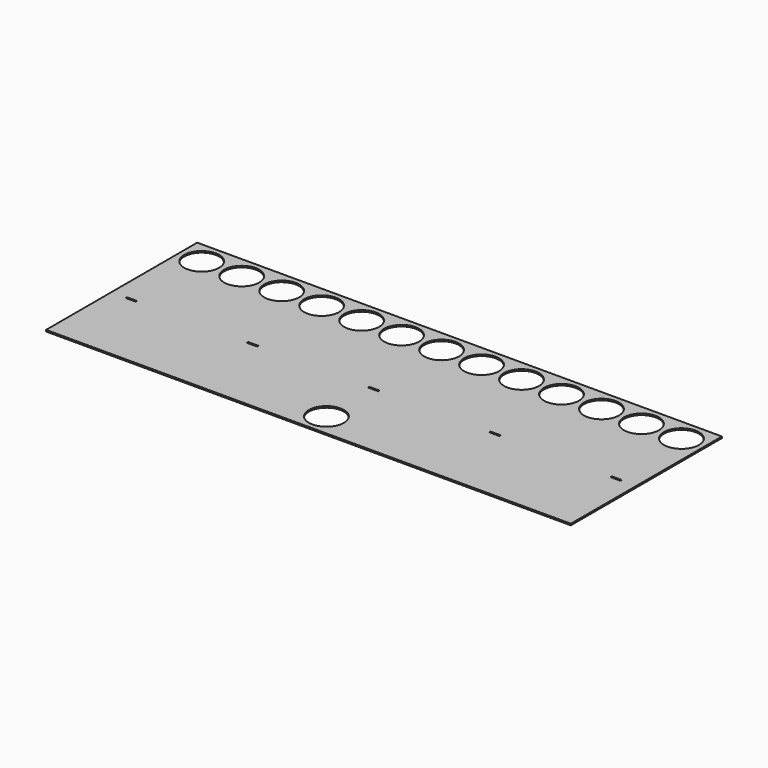
from build123d import *

# Parameters (mm, degrees)
F0_W     = 1050
F0_H     = 378
F0_W_2   = 20.3
F0_H_2   = 3.3
F0_R     = 35
F1_DEPTH = 3


with BuildPart() as f1:
    # F0 (on Top) → F1 (new body)
    with BuildSketch(Plane.XY):
        with Locations((0, -89.869341)):
            Rectangle(F0_W, F0_H)
        with Locations((-485, -115.369341)):
            Rectangle(F0_W_2, F0_H_2, mode=Mode.SUBTRACT)
        with Locations((-242.5, -115.369341)):
            Rectangle(F0_W_2, F0_H_2, mode=Mode.SUBTRACT)
        with Locations((0, -233.869341)):
            Circle(F0_R, mode=Mode.SUBTRACT)
        with Locations((0, -115.369341)):
            Rectangle(F0_W_2, F0_H_2, mode=Mode.SUBTRACT)
        with Locations((242.5, -115.369341)):
            Rectangle(F0_W_2, F0_H_2, mode=Mode.SUBTRACT)
        with Locations((485, -115.369341)):
            Rectangle(F0_W_2, F0_H_2, mode=Mode.SUBTRACT)
        with Locations((-480, 54.130659)):
            Circle(F0_R, mode=Mode.SUBTRACT)
        with Locations((-400, 54.130659)):
            Circle(F0_R, mode=Mode.SUBTRACT)
        with Locations((-320, 54.130659)):
            Circle(F0_R, mode=Mode.SUBTRACT)
        with Locations((-240, 54.130659)):
            Circle(F0_R, mode=Mode.SUBTRACT)
        with Locations((-160, 54.130659)):
            Circle(F0_R, mode=Mode.SUBTRACT)
        with Locations((-80, 54.130659)):
            Circle(F0_R, mode=Mode.SUBTRACT)
        with Locations((0, 54.130659)):
            Circle(F0_R, mode=Mode.SUBTRACT)
        with Locations((80, 54.130659)):
            Circle(F0_R, mode=Mode.SUBTRACT)
        with Locations((160, 54.130659)):
            Circle(F0_R, mode=Mode.SUBTRACT)
        with Locations((240, 54.130659)):
            Circle(F0_R, mode=Mode.SUBTRACT)
        with Locations((320, 54.130659)):
            Circle(F0_R, mode=Mode.SUBTRACT)
        with Locations((400, 54.130659)):
            Circle(F0_R, mode=Mode.SUBTRACT)
        with Locations((480, 54.130659)):
            Circle(F0_R, mode=Mode.SUBTRACT)
    extrude(amount=F1_DEPTH)


solid = f1.part
